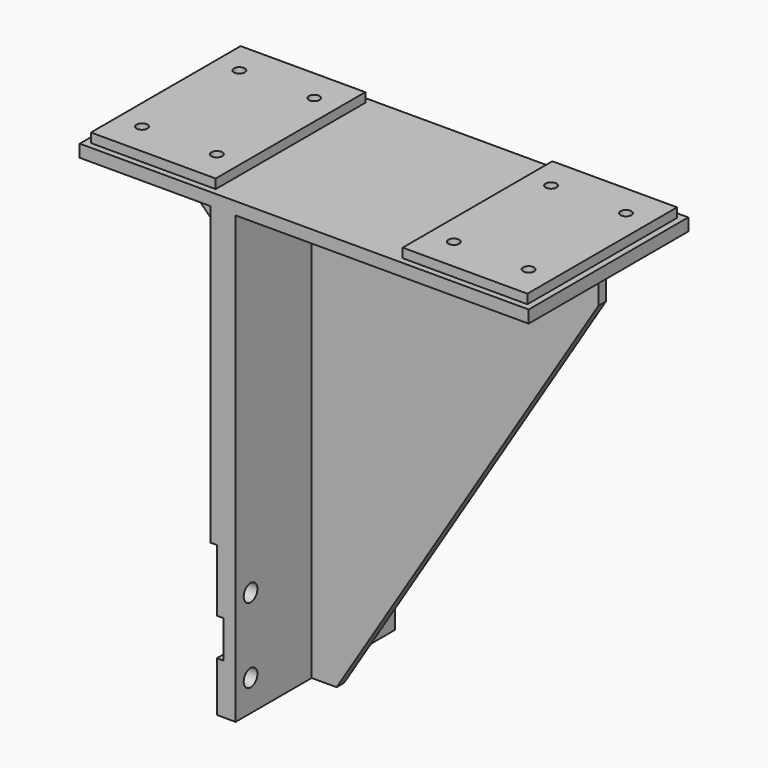
from build123d import *

# Parameters (mm, degrees)
F0_W      = 457.2
F0_H      = 203.2
F1_DEPTH  = 12.7
F2_W      = 127
F2_H      = 190.5
F3_DEPTH  = 9.525
F5_D      = 11.1125
F7_DEPTH  = 4.7625
F9_DEPTH  = 4.7625
F10_W     = 25.4
F10_H     = 454.152
F11_DEPTH = 101.6
F12_W     = 44.551104
F12_H     = 159.36184
F13_DEPTH = 203.201
F14_W     = 96.83972
F14_H     = 38.1
F15_DEPTH = 203.201
F17_D     = 17.4625


with BuildPart() as f1:
    # F0 (on Top) → F1 (new body)
    with BuildSketch(Plane.XY):
        Rectangle(F0_W, F0_H)
    extrude(amount=F1_DEPTH)

    # F2 (on face) → F3 (join)
    with BuildSketch(Plane.XY.offset(12.7)):
        with Locations((158.75, 0)):
            Rectangle(F2_W, F2_H)
        with Locations((-158.75, 0)):
            Rectangle(F2_W, F2_H)
    extrude(amount=F3_DEPTH)

    # F5 (through all)
    with Locations(Plane.XY.offset(22.225)):
        with Locations((-196.85, 61.976), (-120.65, 61.976), (-196.85, -61.976), (-120.65, -61.976), (120.65, 61.976), (196.85, 61.976), (196.85, -61.976), (120.65, -61.976)):
            Hole(F5_D / 2)

    # F6 (on Front) → F7 (join, symmetric)
    with BuildSketch(Plane.XZ):
        Polygon((-95.25, 0), (-222.25, 0), (-222.25, -25.4), (-120.65, -127), (-95.25, -127), align=None)
    extrude(amount=F7_DEPTH, both=True)

    # F8 (on Front) → F9 (join, symmetric)
    with BuildSketch(Plane.XZ):
        Polygon((222.25, -25.4), (222.25, 0), (-69.85, 0), (-69.85, -454.152), (-44.45, -454.152), align=None)
    extrude(amount=F9_DEPTH, both=True)

    # F10 (on Front) → F11 (join, symmetric)
    with BuildSketch(Plane.XZ):
        with Locations((-82.55, -227.076)):
            Rectangle(F10_W, F10_H)
    extrude(amount=F11_DEPTH, both=True)

    # F12 (on face) → F13 (cut, through all)
    with BuildSketch(Plane.XZ.offset(101.6)):
        with Locations((-111.175552, -381.43292)):
            Rectangle(F12_W, F12_H)
    extrude(amount=-F13_DEPTH, mode=Mode.SUBTRACT)

    # F14 (on face) → F15 (cut, through all)
    with BuildSketch(Plane.XZ.offset(101.6)):
        with Locations((-130.46186, -384.175)):
            Rectangle(F14_W, F14_H)
    extrude(amount=-F15_DEPTH, mode=Mode.SUBTRACT)

    # F17 (through all)
    with Locations(Plane.YZ.offset(-69.85)):
        with Locations((-82.55, -346.075), (-82.55, -422.275), (82.55, -422.275), (82.55, -346.075)):
            Hole(F17_D / 2)


solid = f1.part
